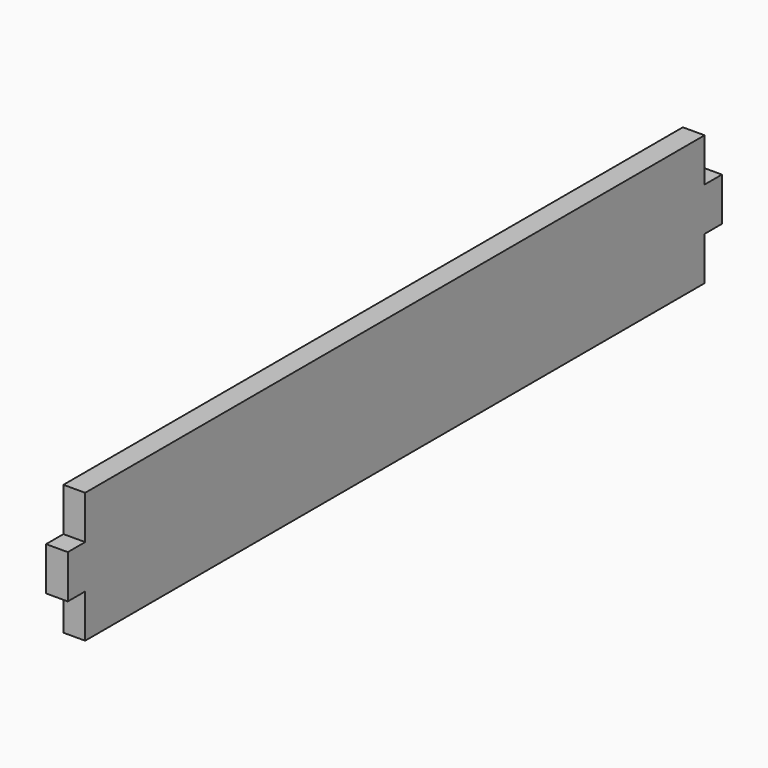
from build123d import *

# Parameters (mm, degrees)
PAD_DEPTH = 6


with BuildPart() as part:
    # Sketch → Pad (new body)
    with BuildSketch(Plane.YZ):
        Polygon((0, 0), (214, 0), (214, 12), (220, 12), (220, 24), (214, 24), (214, 36), (0, 36), (0, 24), (-6, 24), (-6, 12), (0, 12), align=None)
    extrude(amount=PAD_DEPTH)


solid = part.part
